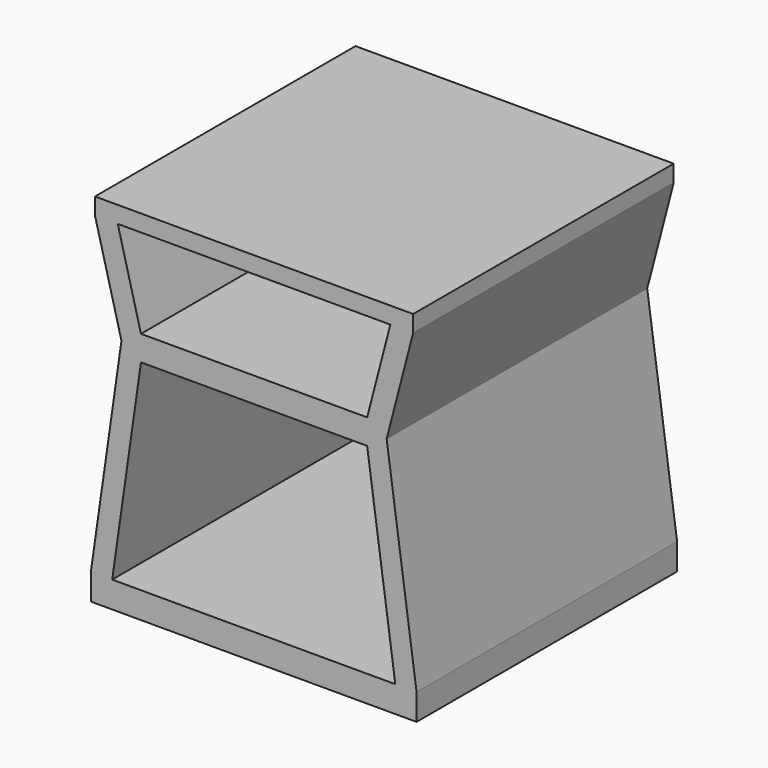
from build123d import *

# Parameters (mm, degrees)
F1_DEPTH = 200
F2_DEPTH = 200


with BuildPart() as f1:
    # F0 (on Front) → F1 (new body)
    with BuildSketch(Plane.XZ):
        Polygon((-200.404041155, 32.3232361522), (-200.404041155, 0), (0, 0), (0, 32.3232361522), (-174.2227269083, 32.3232361522), (-138.8900934788, 278.7407568237), (0, 278.7407568237), (0, 309.5615165938), (-138.8900934788, 309.5615165938), (-167.4122055572, 419.1463837006), (0, 419.1463837006), (0, 439.6935438375), (-195.3948229849, 439.6935438375), (-195.3948229849, 419.1463837006), (-162.8617868268, 294.1511367087), align=None)
        Polygon((0, 32.3232361522), (0, 0), (199.595958845, 0), (199.595958845, 32.3232361522), (162.8617868268, 294.1511367087), (195.3948229849, 419.1463837006), (195.3948229849, 439.6935438375), (0, 439.6935438375), (0, 419.1463837006), (167.4122055572, 419.1463837006), (138.8900934788, 309.5615165938), (0, 309.5615165938), (0, 278.7407568237), (138.8900934788, 278.7407568237), (173.4622058221, 32.3232361522), align=None)
    extrude(amount=F1_DEPTH)

    # F2 (add): a face of the model
    f2_faces = [f1.faces().sort_by_distance(p)[0] for p in [
        (-194.4598808906, 0, 16.1616180761),
    ]]
    extrude(f2_faces, amount=F2_DEPTH)


solid = f1.part
